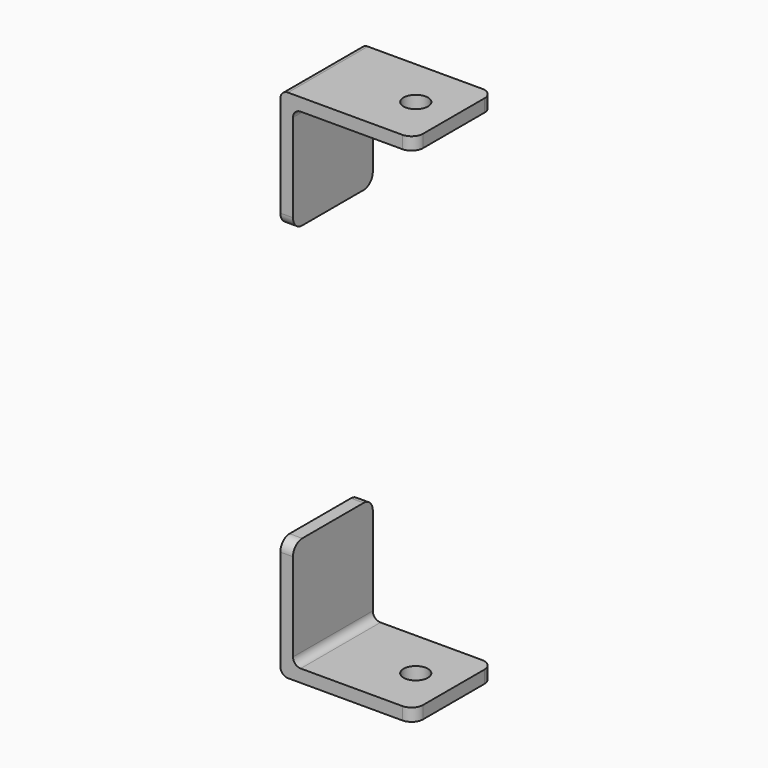
from build123d import *

# Parameters (mm, degrees)
F0_W      = 3.3
F0_H      = 26
F0_W_2    = 31.5
F1_DEPTH  = 3.3
F2_DEPTH  = 28
F3_R      = 3.175
F4_DEPTH  = 3.301
F5_R      = 3
F6_R      = 2
F10_ANGLE = 180


with BuildPart() as f1:
    # F0 (on Top) → F1 (new body)
    with BuildSketch(Plane.XY):
        with Locations((-17.4, 0)):
            Rectangle(F0_W, F0_H)
        Rectangle(F0_W_2, F0_H)
    extrude(amount=-F1_DEPTH)

    # F0 (on Top) → F2 (join)
    with BuildSketch(Plane.XY):
        with Locations((-17.4, 0)):
            Rectangle(F0_W, F0_H)
    extrude(amount=F2_DEPTH)

    # F3 (on face) → F4 (cut, through all)
    with BuildSketch(Plane.XY):
        with Locations((5.85, 0)):
            Circle(F3_R)
    extrude(amount=-F4_DEPTH, mode=Mode.SUBTRACT)

    # F5
    f5_edges = [f1.edges().sort_by_distance(p)[0] for p in [
        (15.75, -13, -1.65),
        (15.75, 13, -1.65),
        (-17.4, -13, 28),
        (-17.4, 13, 28),
    ]]
    fillet(f5_edges, radius=F5_R)

    # F6
    f6_edges = [f1.edges().sort_by_distance(p)[0] for p in [
        (-15.75, 0, 0),
        (-19.05, 0, -3.3),
    ]]
    fillet(f6_edges, radius=F6_R)


with BuildPart() as f8_1:
    # F8: copy of F1
    add(f1.part.moved(Location((0, 0, 127.8))))


with BuildPart() as f8_1_1:
    # F10: moved
    add(f8_1.part.rotate(Axis((10.8, 0, 127.8), (-1, 0, 0)), F10_ANGLE))


solid = Compound([f1.part, f8_1_1.part])
